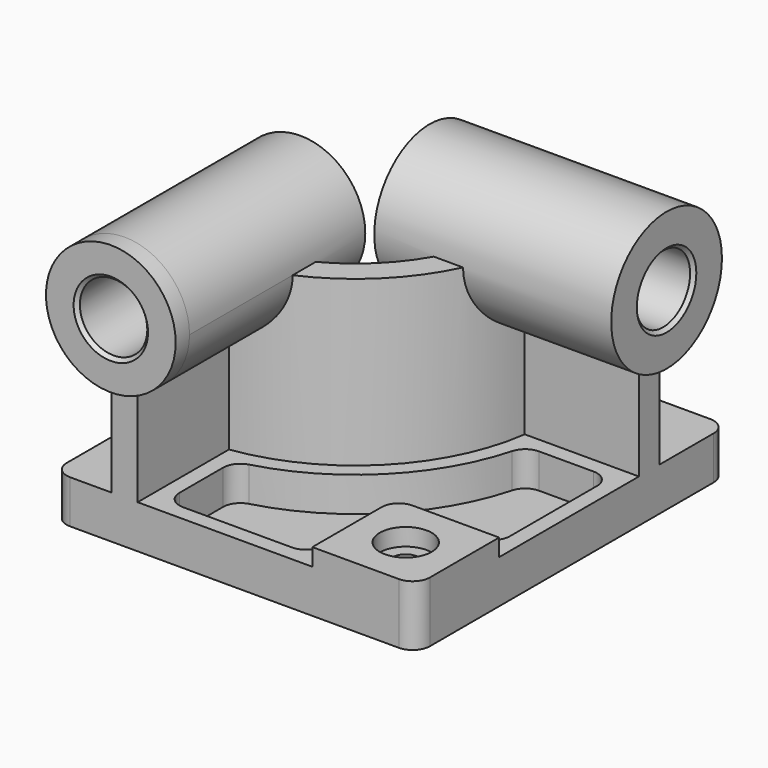
from build123d import *

# Parameters (mm, degrees)
F0_W            = 210
F0_H            = 225
F1_DEPTH        = 25
F3_DEPTH        = 95
F4_R            = 37.5
F5_DEPTH        = 10
F5_DEPTH_BACK   = 127
F6_R            = 40
F7_DEPTH        = 10
F7_DEPTH_BACK   = 127
F8_W            = 60
F8_H            = 60
F9_DEPTH        = 10
F10_R           = 10
F12_DEPTH       = 20
F14_D           = 15
F14_CBORE_D     = 30
F14_CBORE_DEPTH = 10
F15_R           = 10
F16_R           = 10
F17_R           = 19.5
F18_DEPTH       = 235.001
F19_R           = 19.5
F20_DEPTH       = 220.001
F21_SIZE        = 2


with BuildPart() as f1:
    # F0 (on Top) → F1 (new body)
    with BuildSketch(Plane.XY):
        Rectangle(F0_W, F0_H)
    extrude(amount=F1_DEPTH)

    # F2 (on face) → F3 (join)
    with BuildSketch(Plane.XY.offset(25)):
        with BuildLine():
            Line((-71, -32.5), (-71, -112.5))
            Line((-71, -112.5), (-56, -112.5))
            Line((-56, -112.5), (-56, -46.4818166789))
            ThreePointArc((-56, -46.4818166789), (7.4888527117, -14.9888527117), (38.9818166789, 48.5))
            Line((38.9818166789, 48.5), (105, 48.5))
            Line((105, 48.5), (105, 63.5))
            Line((105, 63.5), (25, 63.5))
            ThreePointArc((25, 63.5), (-3.1177490061, -4.3822509939), (-71, -32.5))
        make_face()
    extrude(amount=F3_DEPTH)

    # F4 (on face) → F5 (join, two sides)
    with BuildSketch(Plane.XZ.offset(112.5)) as f5_sk:
        with Locations((-63.5, 120)):
            Circle(F4_R)
        with BuildLine():
            ThreePointArc((-56, 83.2576538583), (-34.4526249034, 96.2829175487), (-26, 120))
            ThreePointArc((-26, 120), (-87.2170824513, 149.0473750966), (-71, 83.2576538583))
            Line((-71, 83.2576538583), (-71, 120))
            Line((-71, 120), (-56, 120))
            Line((-56, 120), (-56, 83.2576538583))
        make_face()
    extrude(amount=F5_DEPTH)
    extrude(f5_sk.sketch, amount=-F5_DEPTH_BACK)

    # F6 (on face) → F7 (join, two sides)
    with BuildSketch(Plane.YZ.offset(105)) as f7_sk:
        with Locations((56, 120)):
            Circle(F6_R)
    extrude(amount=F7_DEPTH)
    extrude(f7_sk.sketch, amount=-F7_DEPTH_BACK)

    # F8 (on face) → F9 (join)
    with BuildSketch(Plane.XY.offset(25)):
        with Locations((75, -82.5)):
            Rectangle(F8_W, F8_H)
    extrude(amount=F9_DEPTH)

    # F10
    f10_edges = [f1.edges().sort_by_distance(p)[0] for p in [
        (45, -52.5, 30),
    ]]
    fillet(f10_edges, radius=F10_R)

    # F11 (on face) → F12 (cut)
    with BuildSketch(Plane.XY.offset(25)):
        with BuildLine():
            Line((36, -103.5), (36, -62.5))
            ThreePointArc((36, -62.5), (41.5649711575, -49.0649711575), (55, -43.5))
            Line((55, -43.5), (96, -43.5))
            Line((96, -43.5), (96, 39.5))
            Line((96, 39.5), (46.5755076536, 39.5))
            ThreePointArc((46.5755076536, 39.5), (13.8528137424, -21.3528137424), (-47, -54.0755076536))
            Line((-47, -54.0755076536), (-47, -103.5))
            Line((-47, -103.5), (36, -103.5))
        make_face()
    extrude(amount=-F12_DEPTH, mode=Mode.SUBTRACT)

    # F14 (through all)
    with Locations(Plane.XY.offset(35)):
        with Locations((75, -82.5)):
            CounterBoreHole(F14_D / 2, F14_CBORE_D / 2, F14_CBORE_DEPTH)

    # F15
    f15_edges = [f1.edges().sort_by_distance(p)[0] for p in [
        (-47, -54.075508, 15),
        (46.575508, 39.5, 15),
        (-47, -103.5, 15),
        (96, 39.5, 15),
        (96, -43.5, 15),
        (36, -103.5, 15),
    ]]
    fillet(f15_edges, radius=F15_R)

    # F16
    f16_edges = [f1.edges().sort_by_distance(p)[0] for p in [
        (105, -112.5, 17.5),
        (-105, -112.5, 12.5),
        (105, 112.5, 12.5),
        (-105, 112.5, 12.5),
    ]]
    fillet(f16_edges, radius=F16_R)

    # F17 (on face) → F18 (cut, through all)
    with BuildSketch(Plane.XZ.offset(122.5)):
        with Locations((-63.5, 120)):
            Circle(F17_R)
        with Locations((-63.5, 120)):
            Circle(F17_R)
    extrude(amount=-F18_DEPTH, mode=Mode.SUBTRACT)

    # F19 (on face) → F20 (cut, through all)
    with BuildSketch(Plane.YZ.offset(115)):
        with Locations((56, 120)):
            Circle(F19_R)
        with Locations((56, 120)):
            Circle(F19_R)
    extrude(amount=-F20_DEPTH, mode=Mode.SUBTRACT)

    # F21
    f21_edges = [f1.edges().sort_by_distance(p)[0] for p in [
        (-83, -122.5, 120),
        (115, 36.5, 120),
        (-22, 36.5, 120),
        (-83, 14.5, 120),
    ]]
    chamfer(f21_edges, length=F21_SIZE)


solid = f1.part
